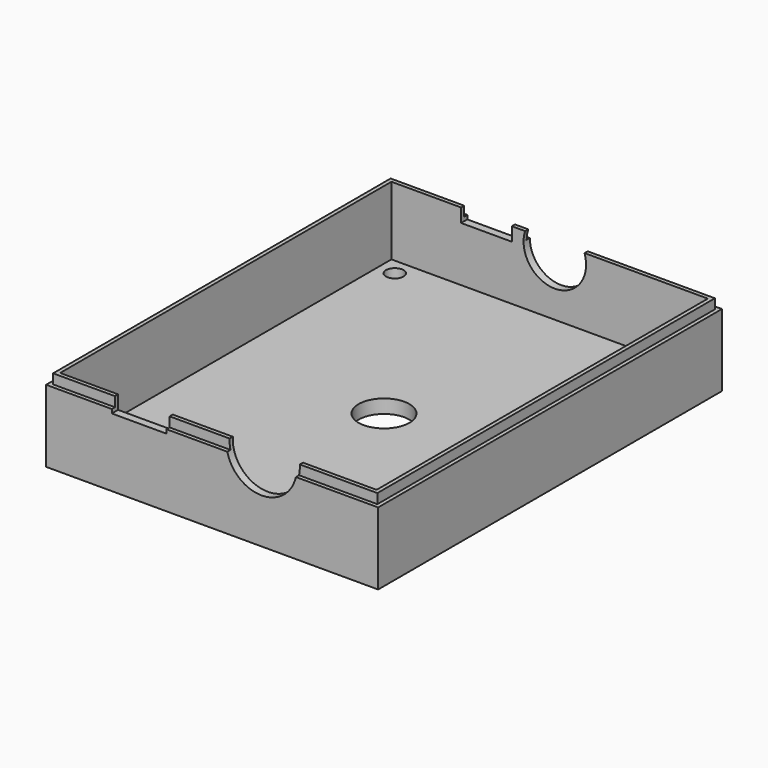
from build123d import *

# Parameters (mm, degrees)
SKETCH_W        = 85
SKETCH_H        = 110
PAD_DEPTH       = 3.5
SKETCH001_W     = 85
SKETCH001_H     = 110
PAD001_DEPTH    = 17.5
SKETCH002_W     = 81
SKETCH002_H     = 106
POCKET_DEPTH    = 17.5
SKETCH003_W     = 85
SKETCH003_H     = 110
SKETCH003_W_2   = 83
SKETCH003_H_2   = 108
POCKET001_DEPTH = 2.5
SKETCH004_R     = 9
SKETCH004_W     = 14
SKETCH004_H     = 12
POCKET002_DEPTH = 5
SKETCH005_R     = 8
SKETCH005_W     = 13
SKETCH005_H     = 12
POCKET003_DEPTH = 5
SKETCH006_R     = 2.25
POCKET004_DEPTH = 5
SKETCH007_R     = 6.5
POCKET005_DEPTH = 5


with BuildPart() as part:
    # Sketch → Pad (new body)
    with BuildSketch(Plane.XY):
        Rectangle(SKETCH_W, SKETCH_H)
    extrude(amount=PAD_DEPTH)

    # Sketch001 (on Face6 of Pad) → Pad001 (join)
    with BuildSketch(Plane.XY.offset(3.5)):
        Rectangle(SKETCH001_W, SKETCH001_H)
    extrude(amount=PAD001_DEPTH)

    # Sketch002 (on Face9 of Pad001) → Pocket (cut)
    with BuildSketch(Plane.XY.offset(21)):
        Rectangle(SKETCH002_W, SKETCH002_H)
    extrude(amount=-POCKET_DEPTH, mode=Mode.SUBTRACT)

    # Sketch003 (on Face9 of Pocket) → Pocket001 (cut)
    with BuildSketch(Plane.XY.offset(21)):
        Rectangle(SKETCH003_W, SKETCH003_H)
        Rectangle(SKETCH003_W_2, SKETCH003_H_2, mode=Mode.SUBTRACT)
    extrude(amount=-POCKET001_DEPTH, mode=Mode.SUBTRACT)

    # Sketch004 (on Face10 of Pocket001) → Pocket002 (cut)
    with BuildSketch(Plane.XZ.offset(55)):
        with Locations((12.67, 20.5)):
            Circle(SKETCH004_R)
        with Locations((-18.67, 23.5)):
            Rectangle(SKETCH004_W, SKETCH004_H)
    extrude(amount=-POCKET002_DEPTH, mode=Mode.SUBTRACT)

    # Sketch005 (on Face5 of Pocket002) → Pocket003 (cut)
    with BuildSketch(Plane(origin=(0, 55, 0), x_dir=(-1, 0, 0), z_dir=(0, 1, 0))):
        with Locations((-1.33, 18.5)):
            Circle(SKETCH005_R)
        with Locations((16.17, 23.5)):
            Rectangle(SKETCH005_W, SKETCH005_H)
    extrude(amount=-POCKET003_DEPTH, mode=Mode.SUBTRACT)

    # Sketch006 (on Face39 of Pocket003) → Pocket004 (cut)
    with BuildSketch(Plane.XY.offset(3.5)):
        with Locations((-36.21, 48.71)):
            Circle(SKETCH006_R)
        with Locations((36.21, 48.71)):
            Circle(SKETCH006_R)
        with Locations((-36.21, -48.71)):
            Circle(SKETCH006_R)
        with Locations((36.21, -48.71)):
            Circle(SKETCH006_R)
    extrude(amount=-POCKET004_DEPTH, mode=Mode.SUBTRACT)

    # Sketch007 (on Face21 of Pocket004) → Pocket005 (cut)
    with BuildSketch(Plane.XY.offset(3.5)):
        Circle(SKETCH007_R)
    extrude(amount=-POCKET005_DEPTH, mode=Mode.SUBTRACT)


solid = part.part
